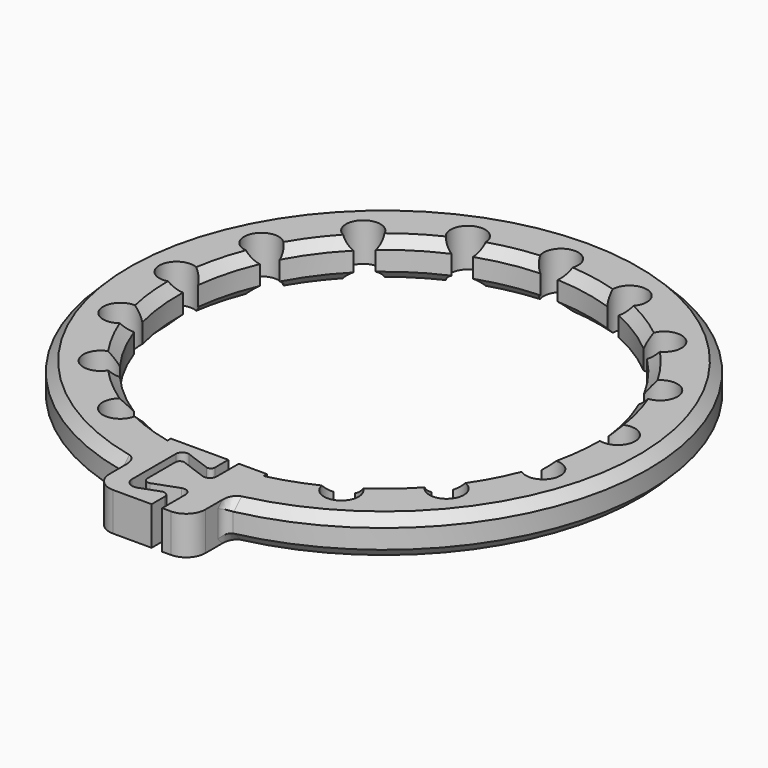
from build123d import *

# Parameters (mm, degrees)
SKETCH_R              = 27.5
SKETCH_R_2            = 21.5
PAD_DEPTH             = 4
CHAMFER_SIZE          = 1
CHAMFER001_SIZE       = 1
CHAMFER002_SIZE       = 1
CHAMFER003_SIZE       = 1
POCKET_DEPTH          = 159.77006
POLARPATTERN_COUNT    = 8
POLARPATTERN_ANGLE    = 150
POLARPATTERN001_COUNT = 8
POLARPATTERN001_ANGLE = 150
SKETCH002_W           = 10
SKETCH002_H           = 10
PAD001_DEPTH          = 4
POCKET001_DEPTH       = 4.001
FILLET_R              = 2
FILLET001_R           = 1
FILLET002_R           = 1


with BuildPart() as part:
    # Sketch → Pad (new body)
    with BuildSketch(Plane.XY):
        Circle(SKETCH_R)
        Circle(SKETCH_R_2, mode=Mode.SUBTRACT)
    extrude(amount=PAD_DEPTH)

    # Chamfer
    chamfer_edges = [part.edges().sort_by_distance(p)[0] for p in [
        (-27.5, 0, 4),
    ]]
    chamfer(chamfer_edges, length=CHAMFER_SIZE)

    # Chamfer001
    chamfer001_edges = [part.edges().sort_by_distance(p)[0] for p in [
        (-21.5, 0, 4),
    ]]
    chamfer(chamfer001_edges, length=CHAMFER001_SIZE)

    # Chamfer002
    chamfer002_edges = [part.edges().sort_by_distance(p)[0] for p in [
        (-21.5, 0, 0),
    ]]
    chamfer(chamfer002_edges, length=CHAMFER002_SIZE)

    # Chamfer003
    chamfer003_edges = [part.edges().sort_by_distance(p)[0] for p in [
        (-27.5, 0, 0),
    ]]
    chamfer(chamfer003_edges, length=CHAMFER003_SIZE)

    # Sketch001 → Pocket (cut, through all)
    with BuildSketch(Plane.XY):
        with BuildLine():
            Line((0, 0), (0.9, 21.481155))
            ThreePointArc((0.9, 21.481155), (0, 24.84), (-0.9, 21.481155))
            Line((-0.9, 21.481155), (0, 0))
        make_face()
    pocket = extrude(amount=POCKET_DEPTH, mode=Mode.SUBTRACT)

    # PolarPattern: Pocket ×8 about axis
    polarpattern_axis = Axis((0, 0, 0), (0, 0, 1))
    for i in range(1, POLARPATTERN_COUNT):
        add(pocket.rotate(polarpattern_axis, i * POLARPATTERN_ANGLE / (POLARPATTERN_COUNT - 1)), mode=Mode.SUBTRACT)

    # PolarPattern001: Pocket ×8 about axis
    polarpattern001_axis = Axis((0, 0, 0), (0, 0, -1))
    for i in range(1, POLARPATTERN001_COUNT):
        add(pocket.rotate(polarpattern001_axis, i * POLARPATTERN001_ANGLE / (POLARPATTERN001_COUNT - 1)), mode=Mode.SUBTRACT)

    # Sketch002 → Pad001 (join)
    with BuildSketch(Plane.XY):
        with Locations((0, -26.5)):
            Rectangle(SKETCH002_W, SKETCH002_H)
    extrude(amount=PAD001_DEPTH)

    # Sketch003 → Pocket001 (cut, through all)
    with BuildSketch(Plane.XY):
        with BuildLine():
            Line((2.084891, -20.013239), (2.084891, -24.380772))
            ThreePointArc((1.138714, -25.043292), (1.784245, -24.958306), (2.084891, -24.380772))
            Line((1.138714, -25.043292), (-1.506459, -24.080528))
            ThreePointArc((-1.506459, -24.080528), (-1.919036, -24.134845), (-2.111187, -24.503963))
            Line((-2.111187, -24.503963), (-2.111187, -28.181175))
            ThreePointArc((-2.111187, -28.181175), (-1.885159, -28.615371), (-1.399843, -28.679264))
            Line((-1.399843, -28.679264), (1.120184, -27.762049))
            ThreePointArc((2.1, -28.448124), (1.788666, -27.850056), (1.120184, -27.762049))
            Line((2.1, -28.448124), (2.1, -32.950565))
            Line((2.1, -32.950565), (1, -32.950565))
            Line((1, -32.950565), (1, -29.795425))
            ThreePointArc((1, -29.795425), (0.751999, -29.319021), (0.219504, -29.248916))
            Line((0.219504, -29.248916), (-1.700739, -29.947827))
            ThreePointArc((-3.000252, -29.037898), (-2.587335, -29.831105), (-1.700739, -29.947827))
            Line((-3.000252, -29.037898), (-3.000252, -23.339681))
            ThreePointArc((-2.109137, -22.715716), (-2.717103, -22.795756), (-3.000252, -23.339681))
            Line((-2.109137, -22.715716), (0.432754, -23.640888))
            ThreePointArc((0.432754, -23.640888), (0.80945, -23.591295), (0.984891, -23.254278))
            Line((0.984891, -23.254278), (0.984891, -20.013239))
            Line((0.984891, -20.013239), (2.084891, -20.013239))
        make_face()
    extrude(amount=POCKET001_DEPTH, mode=Mode.SUBTRACT)

    # Fillet
    fillet_edges = [part.edges().sort_by_distance(p)[0] for p in [
        (-5, -31.5, 2),
        (5, -31.5, 2),
    ]]
    fillet(fillet_edges, radius=FILLET_R)

    # Fillet001
    fillet001_edges = [part.edges().sort_by_distance(p)[0] for p in [
        (-5, -26.532913, 0.499916),
        (-5, -27.041635, 2),
        (-5, -26.532913, 3.500084),
    ]]
    fillet(fillet001_edges, radius=FILLET001_R)

    # Fillet002
    fillet002_edges = [part.edges().sort_by_distance(p)[0] for p in [
        (5, -26.532913, 0.499916),
        (5, -27.041635, 2),
        (5, -26.532913, 3.500084),
    ]]
    fillet(fillet002_edges, radius=FILLET002_R)


solid = part.part
